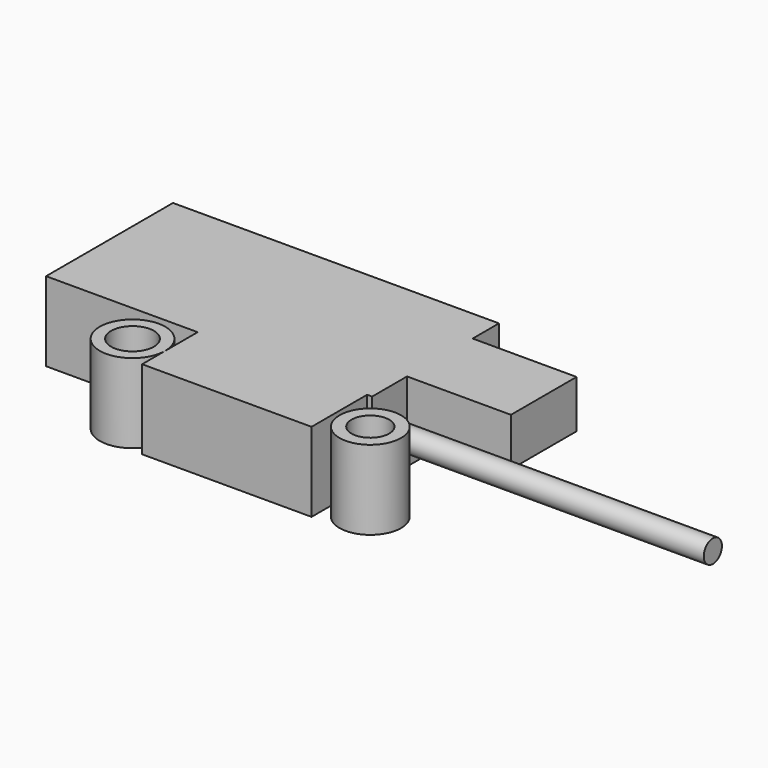
from build123d import *

# Parameters (mm, degrees)
F1_DEPTH  = 25.4
F0_R      = 9.8593951513
F0_R_2    = 6.0413144076
F0_R_3    = 10.4869008064
F0_R_4    = 6.8665215602
F2_W      = 28.213518206
F2_H      = 25.4
F3_DEPTH  = 25.4
F4_DEPTH  = 25.4
F5_R      = 3.6369232823
F6_DEPTH  = 100.838
F7_W      = 25.4
F7_H      = 25.4
F8_DEPTH  = 25.4
F9_DEPTH  = 25.4
F10_W     = 104.413518206
F10_H     = 25.4
F11_DEPTH = 25.4
F13_DEPTH = 33.274


with BuildPart() as f1:
    # F0 (on Top) → F1 (new body)
    with BuildSketch(Plane.XY):
        Polygon((18.8361201435, 12.9692303017), (-35.4309603572, 12.9692303017), (-35.4309603572, 0), (-35.4309603572, -9.264969267), (18.8361201435, -9.264969267), align=None)
    extrude(amount=F1_DEPTH)

    # F2 (on face) → F3 (join)
    with BuildSketch(Plane(origin=(0, 12.9692303017, 0), x_dir=(-1, 0, 0), z_dir=(0, 1, 0))):
        with Locations((19.0684709232, 12.7)):
            Rectangle(F2_W, F2_H)
    extrude(amount=F3_DEPTH)

    # F4 (add): a face of the model
    f4_faces = [f1.faces().sort_by_distance(p)[0] for p in [
        (-4.9617118202, 25.6692303017, 12.7),
    ]]
    extrude(f4_faces, amount=F4_DEPTH)

    # F5 (on face) → F6 (join)
    with BuildSketch(Plane.YZ.offset(20.4382881798)):
        with Locations((23.3396794647, 10.4033220559)):
            Circle(F5_R)
    extrude(amount=F6_DEPTH)

    # F7 (on face) → F8 (join)
    with BuildSketch(Plane(origin=(-33.1752300262, 0, 0), x_dir=(0, -1, 0), z_dir=(-1, 0, 0))):
        with Locations((-25.6692303017, 12.7)):
            Rectangle(F7_W, F7_H)
    extrude(amount=F8_DEPTH)

    # F9 (add): a face of the model
    f9_faces = [f1.faces().sort_by_distance(p)[0] for p in [
        (-58.5752300262, 25.6692303017, 12.7),
    ]]
    extrude(f9_faces, amount=F9_DEPTH)

    # F10 (on face) → F11 (join)
    with BuildSketch(Plane(origin=(0, 38.3692303017, 0), x_dir=(-1, 0, 0), z_dir=(0, 1, 0))):
        with Locations((31.7684709232, 12.7)):
            Rectangle(F10_W, F10_H)
    extrude(amount=F11_DEPTH)

    # F12 (on face) → F13 (join)
    with BuildSketch(Plane.YZ.offset(20.4382881798)):
        with BuildLine():
            Line((53.2369054854, 10.0716692831), (53.2369054854, 25.4))
            Line((53.2369054854, 25.4), (26.9614493911, 25.4))
            Line((26.9614493911, 25.4), (26.9614493911, 10.7349748288))
            ThreePointArc((26.9614493911, 10.7349748288), (26.972812433, 10.5693214429), (26.976602747, 10.4033220559))
            ThreePointArc((26.976602747, 10.4033220559), (26.972812433, 10.2373226689), (26.9614493911, 10.0716692831))
            Line((26.9614493911, 10.0716692831), (53.2369054854, 10.0716692831))
        make_face()
    extrude(amount=F13_DEPTH)


with BuildPart() as f1b:
    # F0 (on Top) → F1, piece 2 (new body)
    with BuildSketch(Plane.XY):
        with Locations((30.249144882, 0)):
            Circle(F0_R)
        with Locations((30.249144882, 0)):
            Circle(F0_R_2, mode=Mode.SUBTRACT)
    extrude(amount=F1_DEPTH)


with BuildPart() as f1c:
    # F0 (on Top) → F1, piece 3 (new body)
    with BuildSketch(Plane.XY):
        with Locations((-45.9178611636, 0)):
            Circle(F0_R_3)
        with Locations((-45.9178611636, 0)):
            Circle(F0_R_4, mode=Mode.SUBTRACT)
    extrude(amount=F1_DEPTH)


solid = Compound([f1.part, f1b.part, f1c.part])
